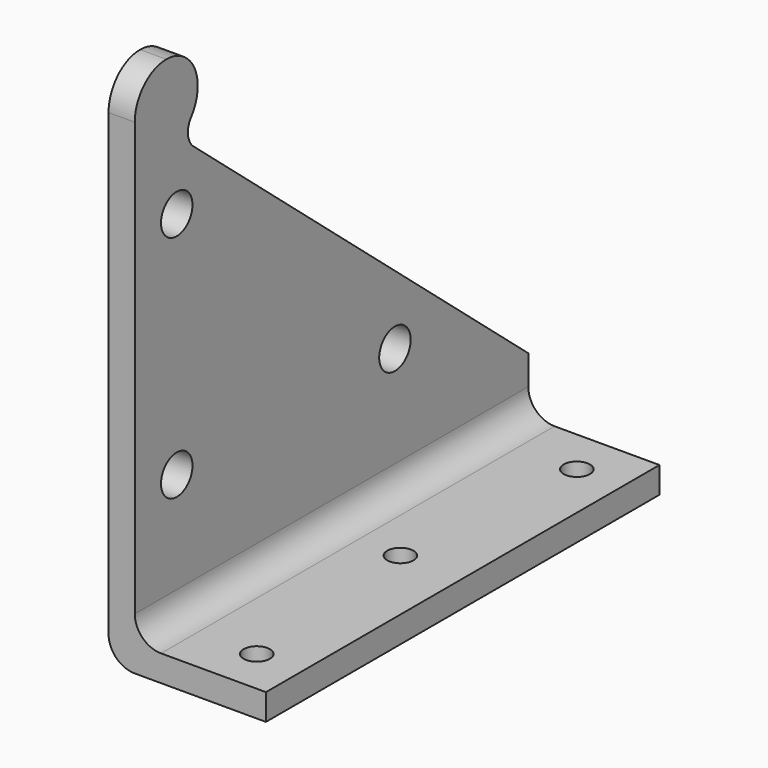
from build123d import *

# Parameters (mm, degrees)
F1_DEPTH = 75
F2_R     = 8
F3_R     = 6
F4_DEPTH = 8.001
F5_R     = 4
F6_DEPTH = 80.001


with BuildPart() as f1:
    # F0 (on Front) → F1 (new body, symmetric)
    with BuildSketch(Plane.XZ):
        Polygon((4, 80), (-4, 80), (-4, -80), (44, -80), (44, -72), (4, -72), align=None)
    extrude(amount=F1_DEPTH, both=True)

    # F2
    f2_edges = [f1.edges().sort_by_distance(p)[0] for p in [
        (4, 0, -72),
        (-4, 0, -80),
    ]]
    fillet(f2_edges, radius=F2_R)

    # F3 (on face) → F4 (cut, through all)
    with BuildSketch(Plane.YZ.offset(4)):
        with BuildLine():
            ThreePointArc((-63, 80), (-54.514719, 76.485281), (-51, 68))
            ThreePointArc((-51, 68), (-51.64257, 64.125884), (-53.501462, 60.666667))
            ThreePointArc((-53.501462, 60.666667), (-54.717975, 56.360123), (-52.61582, 52.409533))
            Line((-52.61582, 52.409533), (75, -55))
            Line((75, -55), (75, 80))
            Line((75, 80), (-63, 80))
        make_face()
        with BuildLine():
            ThreePointArc((-75, 68), (-71.485281, 76.485281), (-63, 80))
            Line((-63, 80), (-75, 80))
            Line((-75, 80), (-75, 68))
        make_face()
        with Locations((-59, 36.869957)):
            Circle(F3_R)
        with Locations((-59, -33.130043)):
            Circle(F3_R)
        with Locations((24.168664, -33.130043)):
            Circle(F3_R)
    extrude(amount=-F4_DEPTH, mode=Mode.SUBTRACT)

    # F5 (on Top) → F6 (cut, through all)
    with BuildSketch(Plane.XY):
        with Locations((30, -61)):
            Circle(F5_R)
        with Locations((25, 0)):
            Circle(F5_R)
        with Locations((30, 61)):
            Circle(F5_R)
    extrude(amount=-F6_DEPTH, mode=Mode.SUBTRACT)


solid = f1.part
